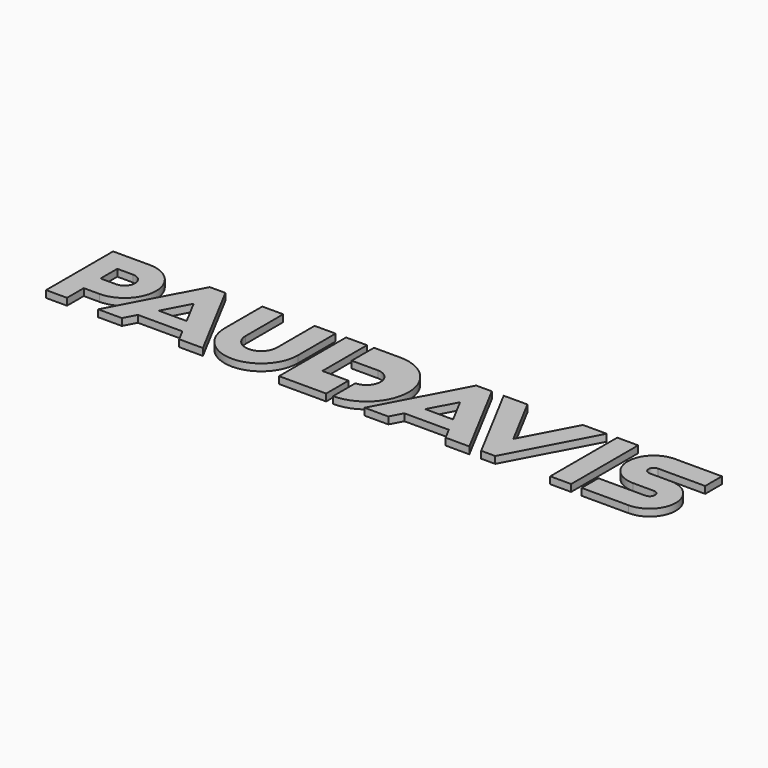
from build123d import *

# Parameters (mm, degrees)
F0_W     = 9.525
F0_H     = 38.1
F1_DEPTH = 3.175


with BuildPart() as f1:
    # F0 (on Top) → F1 (new body)
    with BuildSketch(Plane.XY):
        with BuildLine():
            Line((-128.938442, -9.525), (-121.794692, -9.525))
            ThreePointArc((-121.794692, -9.525), (-107.507192, 4.7625), (-121.794692, 19.05))
            Line((-121.794692, 19.05), (-138.463442, 19.05))
            Line((-138.463442, 19.05), (-138.463442, -19.05))
            Line((-138.463442, -19.05), (-128.938442, -19.05))
            Line((-128.938442, -19.05), (-128.938442, -9.525))
        make_face()
        with BuildLine():
            ThreePointArc((-121.794692, 9.525), (-117.032192, 4.7625), (-121.794692, 0))
            Line((-121.794692, 0), (-128.938442, 0))
            Line((-128.938442, 0), (-128.938442, 9.525))
            Line((-128.938442, 9.525), (-121.794692, 9.525))
        make_face(mode=Mode.SUBTRACT)
        Polygon((-87.380369, 19.05), (-94.524119, 19.05), (-114.764744, -19.05), (-103.979068, -19.05), (-101.072557, -13.578919), (-80.831932, -13.578919), (-77.92542, -19.05), (-67.139744, -19.05), align=None)
        Polygon((-84.627049, -6.435169), (-97.27744, -6.435169), (-90.952244, 5.471081), align=None, mode=Mode.SUBTRACT)
        with BuildLine():
            Line((-70.60218, 19.05), (-70.60218, -2.38125))
            ThreePointArc((-70.60218, -2.38125), (-53.93343, -19.05), (-37.26468, -2.38125))
            Line((-37.26468, -2.38125), (-37.26468, 19.05))
            Line((-37.26468, 19.05), (-46.78968, 19.05))
            Line((-46.78968, 19.05), (-46.78968, -2.38125))
            ThreePointArc((-46.78968, -2.38125), (-53.93343, -9.525), (-61.07718, -2.38125))
            Line((-61.07718, -2.38125), (-61.07718, 19.05))
            Line((-61.07718, 19.05), (-70.60218, 19.05))
        make_face()
        Polygon((-22.97718, 19.05), (-32.50218, 19.05), (-32.50218, -19.05), (-22.97718, -19.05), (-11.07093, -19.05), (-11.07093, -6.35), (-22.97718, -6.35), align=None)
        with BuildLine():
            Line((-7.89593, -6.35), (-7.89593, -19.05))
            ThreePointArc((-7.89593, -19.05), (11.15407, 0), (-7.89593, 19.05))
            Line((-7.89593, 19.05), (-19.80218, 19.05))
            Line((-19.80218, 19.05), (-19.80218, 6.35))
            Line((-19.80218, 6.35), (-7.89593, 6.35))
            ThreePointArc((-7.89593, 6.35), (-1.54593, 0), (-7.89593, -6.35))
        make_face()
        Polygon((33.810971, 19.05), (26.667221, 19.05), (6.426596, -19.05), (17.212272, -19.05), (20.118783, -13.578919), (40.359408, -13.578919), (43.26592, -19.05), (54.051596, -19.05), align=None)
        Polygon((36.564291, -6.435169), (23.9139, -6.435169), (30.239096, 5.471081), align=None, mode=Mode.SUBTRACT)
        Polygon((49.989485, 19.05), (39.203809, 19.05), (59.444434, -19.05), (65.835317, -19.05), (86.075942, 19.05), (75.290266, 19.05), (62.639875, -4.7625), align=None)
        with Locations((95.600942, 0)):
            Rectangle(F0_W, F0_H)
        with BuildLine():
            ThreePointArc((126.557192, -4.7625), (128.938442, -7.14375), (126.557192, -9.525))
            Line((126.557192, -9.525), (105.125942, -9.525))
            Line((105.125942, -9.525), (105.125942, -19.05))
            Line((105.125942, -19.05), (126.557192, -19.05))
            ThreePointArc((126.557192, -19.05), (138.463442, -7.14375), (126.557192, 4.7625))
            Line((126.557192, 4.7625), (117.032192, 4.7625))
            ThreePointArc((117.032192, 4.7625), (114.650942, 7.14375), (117.032192, 9.525))
            Line((117.032192, 9.525), (138.463442, 9.525))
            Line((138.463442, 9.525), (138.463442, 19.05))
            Line((138.463442, 19.05), (117.032192, 19.05))
            ThreePointArc((117.032192, 19.05), (105.125942, 7.14375), (117.032192, -4.7625))
            Line((117.032192, -4.7625), (126.557192, -4.7625))
        make_face()
    extrude(amount=F1_DEPTH)


solid = f1.part
